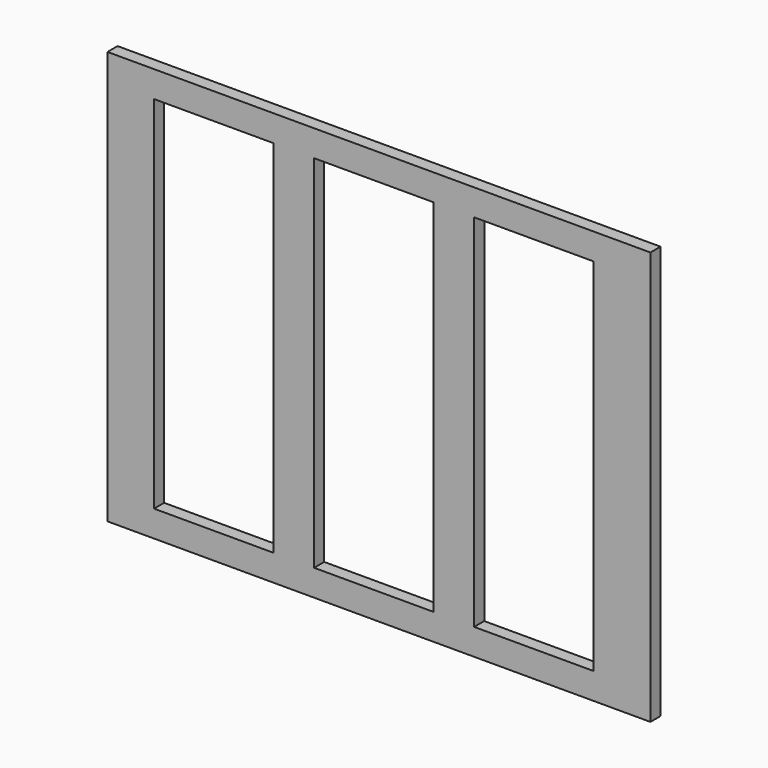
from build123d import *

# Parameters (mm, degrees)
F0_W     = 134
F0_H     = 102
F1_DEPTH = 3.125
F2_W     = 29.5
F2_H     = 79.6
F3_DEPTH = 3.175
F5_W     = 29.5
F5_H     = 4.7
F6_DEPTH = 3.175


with BuildPart() as f1:
    # F0 (on Front) → F1 (new body)
    with BuildSketch(Plane.XZ):
        Rectangle(F0_W, F0_H)
    extrude(amount=F1_DEPTH)

    # F2 (on face) → F3 (cut)
    with BuildSketch(Plane.XZ.offset(3.125)):
        with Locations((-40.75, 0)):
            Rectangle(F2_W, F2_H)
        with Locations((38.25, 0)):
            Rectangle(F2_W, F2_H)
        with Locations((-1.25, 0)):
            Rectangle(F2_W, F2_H)
    extrude(amount=-F3_DEPTH, mode=Mode.SUBTRACT)

    # F5 (on face) → F6 (cut)
    with BuildSketch(Plane.XZ.offset(3.125)):
        with Locations((-40.75, 42.15)):
            Rectangle(F5_W, F5_H)
        with Locations((-1.25, 42.15)):
            Rectangle(F5_W, F5_H)
        with Locations((38.25, 42.15)):
            Rectangle(F5_W, F5_H)
        with Locations((38.25, -42.15)):
            Rectangle(F5_W, F5_H)
        with Locations((-1.25, -42.15)):
            Rectangle(F5_W, F5_H)
        with Locations((-40.75, -42.15)):
            Rectangle(F5_W, F5_H)
    extrude(amount=-F6_DEPTH, mode=Mode.SUBTRACT)


solid = f1.part
